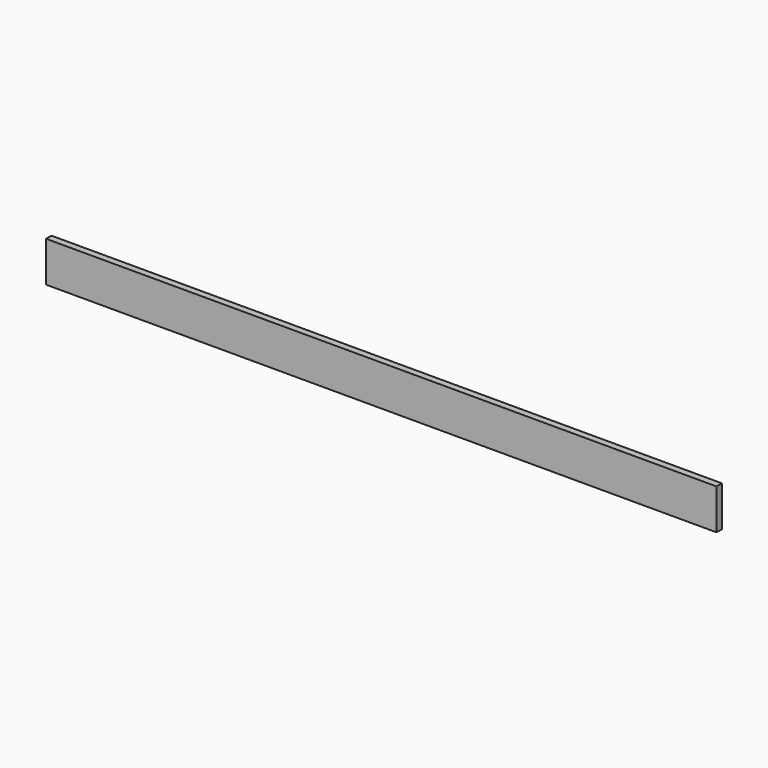
from build123d import *

# Parameters (mm, degrees)
F0_W     = 12.7
F0_H     = 76.2
F1_DEPTH = 1263.65
F2_ANGLE = 90


with BuildPart() as f1:
    # F0 (on Front) → F1 (new body)
    with BuildSketch(Plane.XZ):
        with Locations((6.35, 38.1)):
            Rectangle(F0_W, F0_H)
    extrude(amount=-F1_DEPTH)


with BuildPart() as f1_1:
    # F2: moved
    add(f1.part.rotate(Axis((0, 0, 38.1), (0, 0, -1)), F2_ANGLE))


solid = f1_1.part
